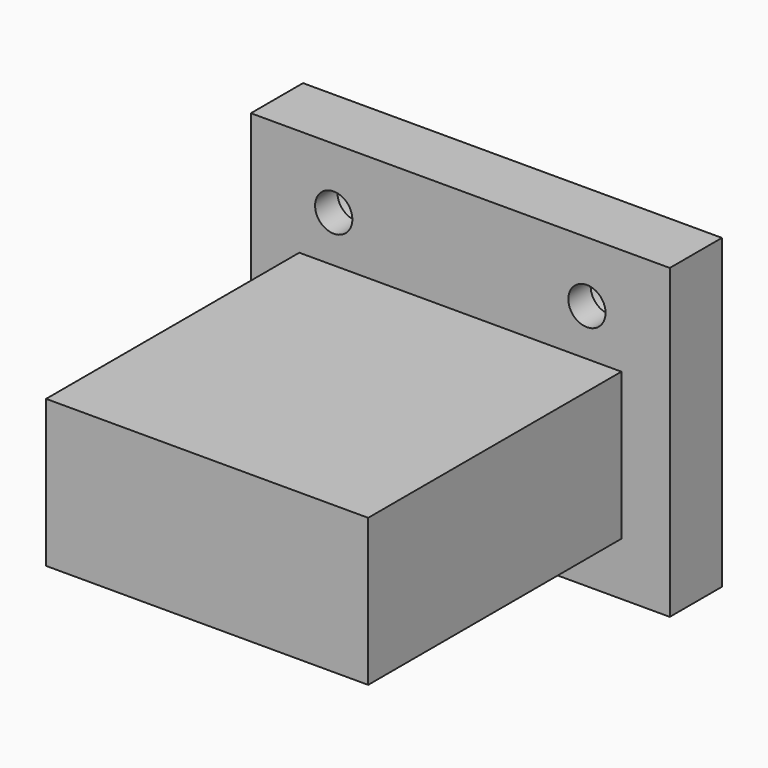
from build123d import *

# Parameters (mm, degrees)
SKETCH025_W             = 22.5
SKETCH025_H             = 16.5
PAD012_DEPTH            = 3.5
SKETCH026_R             = 2.2
POCKET009_DEPTH         = 2
SKETCH027_R             = 1
POCKET010_DEPTH         = 3.501
SKETCH028_W             = 17.3
SKETCH028_H             = 7.9
PAD013_DEPTH            = 17
BODY003_PLACEMENT_ANGLE = 180


with BuildPart() as part:
    # Sketch025 → Pad012 (new body)
    with BuildSketch(Plane.XZ):
        with Locations((11.25, 8.25)):
            Rectangle(SKETCH025_W, SKETCH025_H)
    extrude(amount=PAD012_DEPTH)

    # Sketch026 (on Face6 of Pad012) → Pocket009 (cut)
    with BuildSketch(Plane.XZ.offset(3.5)):
        with Locations((4.45, 13.25)):
            Circle(SKETCH026_R)
        with Locations((18.05, 13.25)):
            Circle(SKETCH026_R)
    extrude(amount=-POCKET009_DEPTH, mode=Mode.SUBTRACT)

    # Sketch027 (on Face5 of Pocket009) → Pocket010 (cut, through all)
    with BuildSketch(Plane.XZ.offset(3.5)):
        with Locations((4.45, 13.25)):
            Circle(SKETCH027_R)
        with Locations((18.05, 13.25)):
            Circle(SKETCH027_R)
    extrude(amount=-POCKET010_DEPTH, mode=Mode.SUBTRACT)

    # Sketch028 (on Face4 of Pocket010) → Pad013 (join)
    with BuildSketch(Plane(origin=(0, 0, 0), x_dir=(1, 0, 0), z_dir=(0, 1, 0))):
        with Locations((11.25, -6.8)):
            Rectangle(SKETCH028_W, SKETCH028_H)
    extrude(amount=PAD013_DEPTH)


with BuildPart() as part_1:
    # Body003 placement: moved
    add(part.part.moved(Location((29.2, 70.5, -0.5))).rotate(Axis((29.2, 70.5, -0.5), (0, 0, 1)), BODY003_PLACEMENT_ANGLE))


solid = part_1.part
